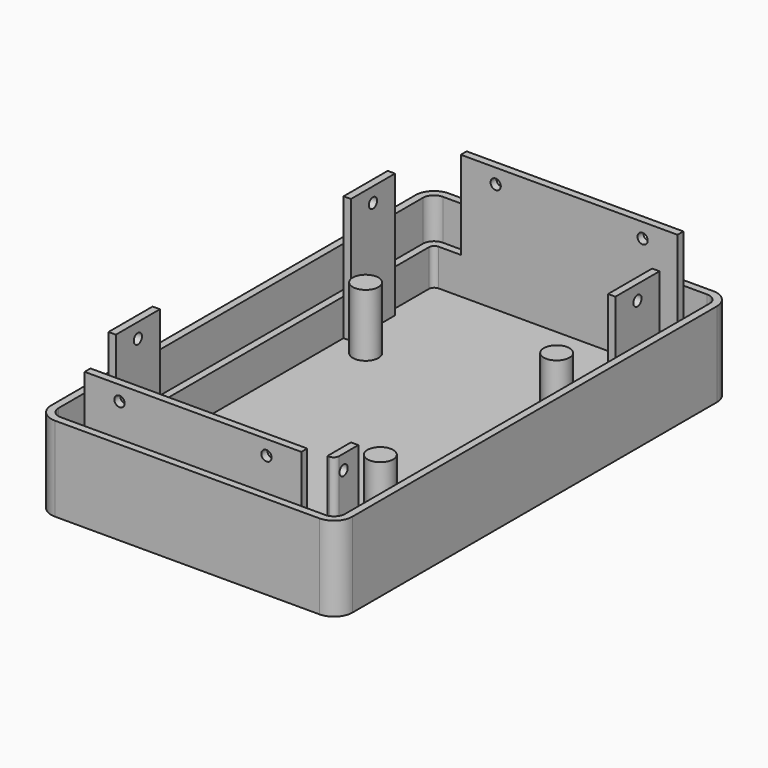
from build123d import *

# Parameters (mm, degrees)
F1_DEPTH  = 23
F2_T      = -2
F3_R      = 3.5
F4_DEPTH  = 17
F5_DEPTH  = 2
F6_DEPTH  = 10
F7_W      = 59
F7_H      = 2
F7_W_2    = 2
F7_H_2    = 15
F8_DEPTH  = 34
F9_R      = 1.4
F10_DEPTH = 132.001
F11_R     = 1.4
F12_DEPTH = 78.001


with BuildPart() as f1:
    # F0 (on Top) → F1 (new body)
    with BuildSketch(Plane.XY):
        with BuildLine():
            Line((-36, -67), (36, -67))
            ThreePointArc((36, -67), (39.5355339059, -65.5355339059), (41, -62))
            Line((41, -62), (41, 62))
            ThreePointArc((41, 62), (39.5355339059, 65.5355339059), (36, 67))
            Line((36, 67), (-36, 67))
            ThreePointArc((-36, 67), (-39.5355339059, 65.5355339059), (-41, 62))
            Line((-41, 62), (-41, -62))
            ThreePointArc((-41, -62), (-39.5355339059, -65.5355339059), (-36, -67))
        make_face()
    extrude(amount=F1_DEPTH)

    # F2
    f2_openings = [f1.faces().sort_by_distance(p)[0] for p in [
        (0, 0, 23),
    ]]
    offset(amount=F2_T, openings=f2_openings)

    # F3 (on face) → F4 (join)
    with BuildSketch(Plane.XY.offset(2)):
        with Locations((-29, 30)):
            Circle(F3_R)
        with Locations((23, 30)):
            Circle(F3_R)
        with Locations((23, -30)):
            Circle(F3_R)
    extrude(amount=F4_DEPTH)

    # F3 (on face) → F5 (cut)
    with BuildSketch(Plane.XY.offset(2)):
        with BuildLine():
            ThreePointArc((15.5, 3.5), (18, 1), (20.5, 3.5))
            Line((20.5, 3.5), (20.5, 10.5))
            ThreePointArc((20.5, 10.5), (18, 13), (15.5, 10.5))
            Line((15.5, 10.5), (15.5, 3.5))
        make_face()
    extrude(amount=-F5_DEPTH, mode=Mode.SUBTRACT)

    # F3 (on face) → F6 (join)
    with BuildSketch(Plane.XY.offset(2)):
        with BuildLine():
            Line((-36, -65), (36, -65))
            ThreePointArc((36, -65), (38.1213203436, -64.1213203436), (39, -62))
            Line((39, -62), (39, 62))
            ThreePointArc((39, 62), (38.1213203436, 64.1213203436), (36, 65))
            Line((36, 65), (-36, 65))
            ThreePointArc((-36, 65), (-38.1213203436, 64.1213203436), (-39, 62))
            Line((-39, 62), (-39, -62))
            ThreePointArc((-39, -62), (-38.1213203436, -64.1213203436), (-36, -65))
        make_face()
        with BuildLine():
            ThreePointArc((37, -61.5), (36.5606601718, -62.5606601718), (35.5, -63))
            Line((35.5, -63), (-35.5, -63))
            ThreePointArc((-35.5, -63), (-36.5606601718, -62.5606601718), (-37, -61.5))
            Line((-37, -61.5), (-37, 61.5))
            ThreePointArc((-37, 61.5), (-36.5606601718, 62.5606601718), (-35.5, 63))
            Line((-35.5, 63), (35.5, 63))
            ThreePointArc((35.5, 63), (36.5606601718, 62.5606601718), (37, 61.5))
            Line((37, 61.5), (37, -61.5))
        make_face(mode=Mode.SUBTRACT)
    extrude(amount=F6_DEPTH)

    # F7 (on face) → F8 (join)
    with BuildSketch(Plane.XY.offset(2)):
        with Locations((0, 64)):
            Rectangle(F7_W, F7_H)
        with Locations((0, -64)):
            Rectangle(F7_W, F7_H)
        with Locations((-36, 40)):
            Rectangle(F7_W_2, F7_H_2)
        with Locations((-36, -40)):
            Rectangle(F7_W_2, F7_H_2)
        with Locations((36, 40)):
            Rectangle(F7_W_2, F7_H_2)
        with BuildLine():
            Line((37, -61.5), (37, -55))
            Line((37, -55), (35, -55))
            Line((35, -55), (35, -63))
            Line((35, -63), (35.5, -63))
            ThreePointArc((35.5, -63), (36.5606601718, -62.5606601718), (37, -61.5))
        make_face()
    extrude(amount=F8_DEPTH)

    # F9 (on face) → F10 (cut, through all)
    with BuildSketch(Plane.XZ.offset(65)):
        with Locations((-20, 32)):
            Circle(F9_R)
        with Locations((20, 32)):
            Circle(F9_R)
    extrude(amount=-F10_DEPTH, mode=Mode.SUBTRACT)

    # F11 (on face) → F12 (cut, through all)
    with BuildSketch(Plane.YZ.offset(37)):
        with Locations((40, 32)):
            Circle(F11_R)
        with Locations((-40, 32)):
            Circle(F11_R)
        with Locations((-60, 32)):
            Circle(F11_R)
    extrude(amount=-F12_DEPTH, mode=Mode.SUBTRACT)


solid = f1.part
